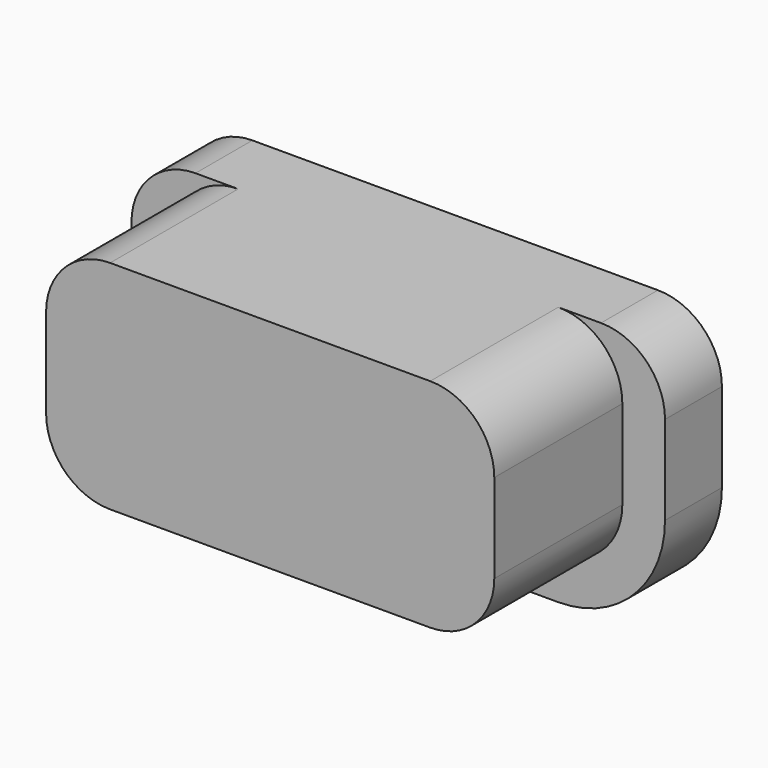
from build123d import *

# Parameters (mm, degrees)
EXTRUDE015_DEPTH = 1
EXTRUDE014_DEPTH = 2.25


with BuildPart() as extrude015:
    # Sketch015 → Extrude015 (new body)
    with BuildSketch(Plane.XZ):
        with BuildLine():
            ThreePointArc((11.7, 16.35), (11.063604, 16.086396), (10.8, 15.45))
            Line((10.8, 14.2), (10.8, 15.45))
            ThreePointArc((10.8, 14.2), (11.23934, 13.13934), (12.3, 12.7))
            Line((16.8, 12.7), (12.3, 12.7))
            ThreePointArc((16.8, 12.7), (17.86066, 13.13934), (18.3, 14.2))
            Line((18.3, 15.45), (18.3, 14.2))
            ThreePointArc((18.3, 15.45), (18.036396, 16.086396), (17.4, 16.35))
            Line((11.7, 16.35), (17.4, 16.35))
        make_face()
    extrude(amount=EXTRUDE015_DEPTH)


with BuildPart() as extrude015_1:
    # Extrude015 placement: moved
    add(extrude015.part.moved(Location((0, 3, 0))))


with BuildPart() as button1:
    # Sketch014 → Extrude014 (new body)
    with BuildSketch(Plane.XZ):
        with BuildLine():
            ThreePointArc((12.3, 16.35), (11.663604, 16.086396), (11.4, 15.45))
            Line((11.4, 14.2), (11.4, 15.45))
            ThreePointArc((11.4, 14.2), (11.663604, 13.563604), (12.3, 13.3))
            Line((16.8, 13.3), (12.3, 13.3))
            ThreePointArc((16.8, 13.3), (17.436396, 13.563604), (17.7, 14.2))
            Line((17.7, 15.45), (17.7, 14.2))
            ThreePointArc((17.7, 15.45), (17.436396, 16.086396), (16.8, 16.35))
            Line((12.3, 16.35), (16.8, 16.35))
        make_face()
    extrude(amount=EXTRUDE014_DEPTH)


with BuildPart() as button1_1:
    # Extrude014 placement: moved
    add(button1.part.moved(Location((0, 2, 0))))

    # Fusion018: union Extrude015
    add(extrude015_1.part)


solid = button1_1.part
